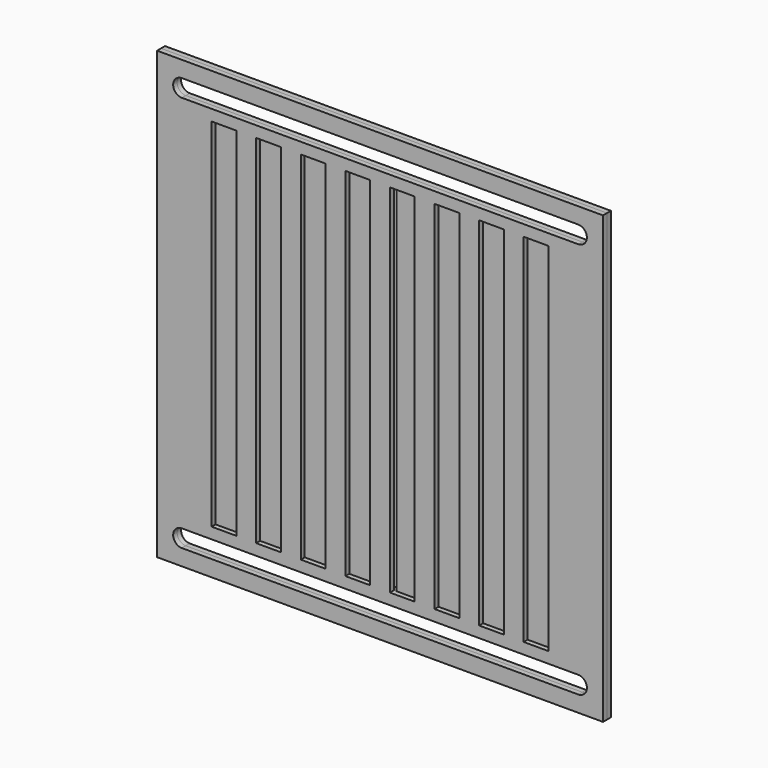
from build123d import *

# Parameters (mm, degrees)
F0_W     = 90
F0_H     = 90
F1_DEPTH = 1
F2_W     = 90
F2_H     = 90
F2_W_2   = 5
F2_H_2   = 72
F2_W_3   = 4.5
F3_DEPTH = 1


with BuildPart() as f1:
    # F0 (on Front) → F1 (new body)
    with BuildSketch(Plane.XZ):
        Rectangle(F0_W, F0_H)
        with BuildLine():
            ThreePointArc((40, -38.25), (41.75, -40), (40, -41.75))
            Line((40, -41.75), (0, -41.75))
            Line((0, -41.75), (-40, -41.75))
            ThreePointArc((-40, -41.75), (-41.75, -40), (-40, -38.25))
            Line((-40, -38.25), (0, -38.25))
            Line((0, -38.25), (40, -38.25))
        make_face(mode=Mode.SUBTRACT)
        Polygon((-34, 36), (-29, 36), (-29, 0), (-29, -36), (-34, -36), (-34, 0), align=None, mode=Mode.SUBTRACT)
        Polygon((-25, -36), (-25, 0), (-25, 36), (-20, 36), (-20, 0), (-20, -36), align=None, mode=Mode.SUBTRACT)
        Polygon((-16, -36), (-16, 0), (-16, 36), (-11, 36), (-11, 0), (-11, -36), align=None, mode=Mode.SUBTRACT)
        Polygon((-7, 36), (-2, 36), (-2, 0), (-2, -36), (-7, -36), (-7, 0), align=None, mode=Mode.SUBTRACT)
        Polygon((2, 0), (2, 36), (7, 36), (7, 0), (7, -36), (2, -36), align=None, mode=Mode.SUBTRACT)
        Polygon((11, -36), (11, 0), (11, 36), (16, 36), (16, 0), (16, -36), align=None, mode=Mode.SUBTRACT)
        Polygon((20, -36), (20, 0), (20, 36), (25, 36), (25, 0), (25, -36), align=None, mode=Mode.SUBTRACT)
        Polygon((29, -36), (29, 0), (29, 36), (34, 36), (34, 0), (34, -36), align=None, mode=Mode.SUBTRACT)
        with BuildLine():
            Line((-40, 41.75), (0, 41.75))
            Line((0, 41.75), (40, 41.75))
            ThreePointArc((40, 41.75), (41.75, 40), (40, 38.25))
            Line((40, 38.25), (0, 38.25))
            Line((0, 38.25), (-40, 38.25))
            ThreePointArc((-40, 38.25), (-41.75, 40), (-40, 41.75))
        make_face(mode=Mode.SUBTRACT)
    extrude(amount=F1_DEPTH)


with BuildPart() as f3:
    # F2 (on face) → F3 (new body)
    with BuildSketch(Plane(origin=(0, 0, 0), x_dir=(-1, 0, 0), z_dir=(0, 1, 0))):
        Rectangle(F2_W, F2_H)
        with BuildLine():
            Line((40, -41.75), (-40, -41.75))
            ThreePointArc((-40, -41.75), (-41.75, -40), (-40, -38.25))
            Line((-40, -38.25), (40, -38.25))
            ThreePointArc((40, -38.25), (41.75, -40), (40, -41.75))
        make_face(mode=Mode.SUBTRACT)
        with Locations((-31.5, 0)):
            Rectangle(F2_W_2, F2_H_2, mode=Mode.SUBTRACT)
        with Locations((-22.5, 0)):
            Rectangle(F2_W_2, F2_H_2, mode=Mode.SUBTRACT)
        with Locations((-13.5, 0)):
            Rectangle(F2_W_2, F2_H_2, mode=Mode.SUBTRACT)
        Polygon((2, 36), (2.5, 36), (7, 36), (7, -36), (2.5, -36), (2, -36), (-2, -36), (-2.5, -36), (-7, -36), (-7, 36), (-2.5, 36), (-2, 36), align=None, mode=Mode.SUBTRACT)
        with Locations((13.5, 0)):
            Rectangle(F2_W_2, F2_H_2, mode=Mode.SUBTRACT)
        with Locations((22.5, 0)):
            Rectangle(F2_W_2, F2_H_2, mode=Mode.SUBTRACT)
        with Locations((31.5, 0)):
            Rectangle(F2_W_2, F2_H_2, mode=Mode.SUBTRACT)
        with BuildLine():
            ThreePointArc((-40, 38.25), (-41.75, 40), (-40, 41.75))
            Line((-40, 41.75), (40, 41.75))
            ThreePointArc((40, 41.75), (41.75, 40), (40, 38.25))
            Line((40, 38.25), (-40, 38.25))
        make_face(mode=Mode.SUBTRACT)
        with Locations((-13.5, 0)):
            Rectangle(F2_W_2, F2_H_2)
        with Locations((-22.5, 0)):
            Rectangle(F2_W_2, F2_H_2)
        with Locations((-31.5, 0)):
            Rectangle(F2_W_2, F2_H_2)
        with Locations((22.5, 0)):
            Rectangle(F2_W_2, F2_H_2)
        with Locations((31.5, 0)):
            Rectangle(F2_W_2, F2_H_2)
        with Locations((13.5, 0)):
            Rectangle(F2_W_2, F2_H_2)
        with Locations((-4.75, 0)):
            Rectangle(F2_W_3, F2_H_2)
        with Locations((4.75, 0)):
            Rectangle(F2_W_3, F2_H_2)
    extrude(amount=F3_DEPTH)


solid = Compound([f1.part, f3.part])
